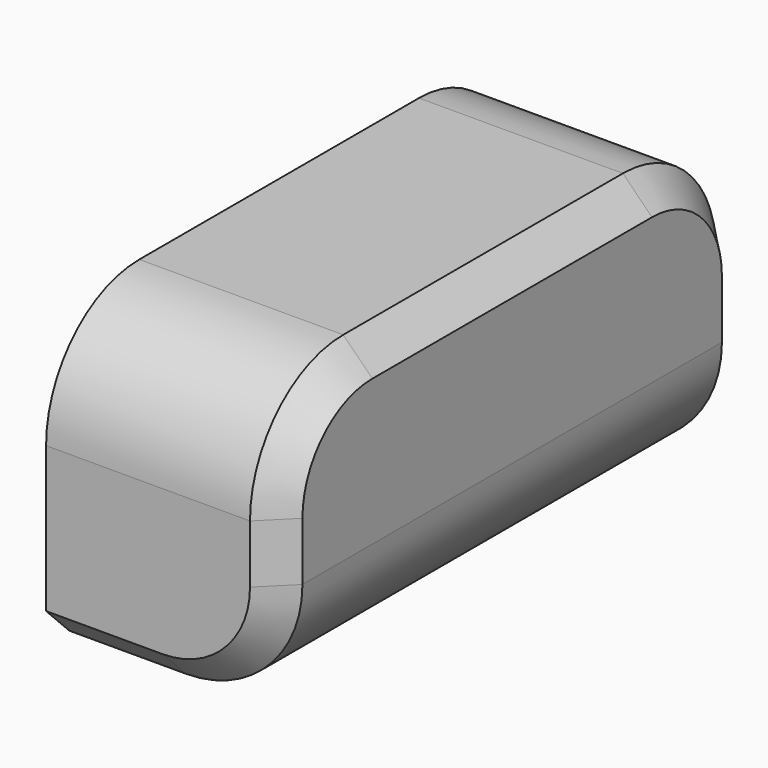
from build123d import *

# Parameters (mm, degrees)
F0_W     = 40
F0_H     = 50
F1_DEPTH = 50
F2_R     = 20
F3_SIZE  = 5
F4_T     = -2.5
F6_R     = 12.5
F7_DEPTH = 2.5


with BuildPart() as f1:
    # F0 (on Front) → F1 (new body)
    with BuildSketch(Plane.XZ):
        with Locations((9.33321, 13.938332)):
            Rectangle(F0_W, F0_H)
    extrude(amount=F1_DEPTH)

    # F2
    f2_edges = [f1.edges().sort_by_distance(p)[0] for p in [
        (9.33321, -50, 38.938332),
        (29.33321, -25, -11.061668),
    ]]
    fillet(f2_edges, radius=F2_R)

    # F3
    f3_edges = [f1.edges().sort_by_distance(p)[0] for p in [
        (29.33321, -15, 38.938332),
    ]]
    chamfer(f3_edges, length=F3_SIZE)

    # F4
    f4_openings = [f1.faces().sort_by_distance(p)[0] for p in [
        (8.511559, 0, 14.711798),
    ]]
    offset(amount=F4_T, openings=f4_openings)

    # F5: F1 across plane


with BuildPart() as f1_1:
    add(f1.part)
    add(f1.part.mirror(Plane.XZ))

    # F6 (on face) → F7 (cut, through all)
    with BuildSketch(Plane(origin=(-10.66679, 0, 0), x_dir=(0, -1, 0), z_dir=(-1, 0, 0))):
        with Locations((0, 12.662414)):
            Circle(F6_R)
    extrude(amount=-F7_DEPTH, mode=Mode.SUBTRACT)


solid = f1_1.part
